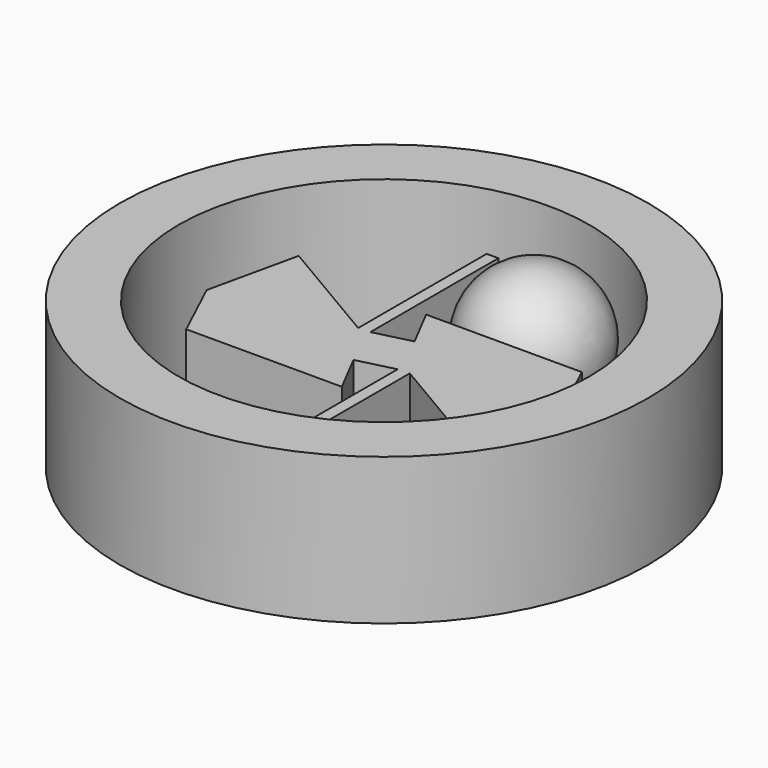
from build123d import *

# Parameters (mm, degrees)
SKETCH003_R        = 9
SKETCH003_R_2      = 7
PAD001_DEPTH       = 2.5
PAD_DEPTH          = 1
POLARPATTERN_COUNT = 2


with BuildPart() as pad001:
    # Sketch003 → Pad001 (new body, symmetric)
    with BuildSketch(Plane.XY):
        Circle(SKETCH003_R)
        Circle(SKETCH003_R_2, mode=Mode.SUBTRACT)
    extrude(amount=PAD001_DEPTH, both=True)


with BuildPart() as polarpattern:
    # Sketch002 → Pad (new body, symmetric)
    with BuildSketch(Plane.XY):
        Polygon((-0.424066, 2.324241), (4.880309, 2.324241), (5.867286, 0.220209), (0, 0), (-5.867286, -0.220209), (-5.185044, 2.849646), (-1.352089, 0.590664), (-1.352089, 6.062253), (-0.952089, 6.062253), (-0.952089, 0.609972), (0.302905, 0.923859), align=None)
    pad = extrude(amount=PAD_DEPTH, both=True)

    # PolarPattern: Pad ×2 about axis
    polarpattern_axis = Axis((0, 0, 0), (0, 0, 1))
    for i in range(1, POLARPATTERN_COUNT):
        add(pad.rotate(polarpattern_axis, i * 360 / POLARPATTERN_COUNT))


with BuildPart() as sphere:
    # Sphere → Sphere (revolve)
    with BuildSketch(Plane(origin=(1.5, 4.5, 0), x_dir=(1, 0, 0), z_dir=(0, -1, 0))):
        with BuildLine():
            ThreePointArc((0, -2.25), (2.25, 0), (0, 2.25))
            Line((0, 2.25), (0, -2.25))
        make_face()
    revolve(axis=Axis((1.5, 4.5, 0), (0, 0, 1)))


solid = Compound([pad001.part, polarpattern.part, sphere.part])
